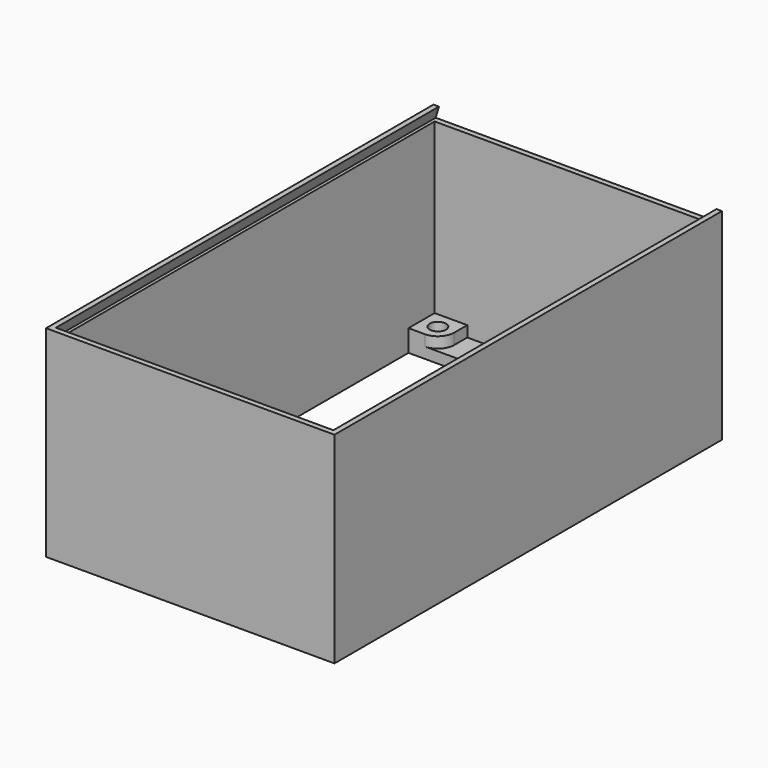
from build123d import *

# Parameters (mm, degrees)
SKETCH_W        = 53
SKETCH_H        = 89
PAD_DEPTH       = 2
SKETCH001_W     = 51
SKETCH001_H     = 71
POCKET_DEPTH    = 2
SKETCH002_W     = 53
SKETCH002_H     = 89
SKETCH002_W_2   = 51
SKETCH002_H_2   = 87
PAD001_DEPTH    = 33
SKETCH003_R     = 1.5
PAD002_DEPTH    = 2
PAD003_DEPTH    = 2
POCKET001_DEPTH = 88


with BuildPart() as part:
    # Sketch → Pad (new body)
    with BuildSketch(Plane.XY):
        with Locations((26.5, 44.5)):
            Rectangle(SKETCH_W, SKETCH_H)
    extrude(amount=PAD_DEPTH)

    # Sketch001 (on Face6 of Pad) → Pocket (cut)
    with BuildSketch(Plane.XY.offset(2)):
        with Locations((26.5, 46.5)):
            Rectangle(SKETCH001_W, SKETCH001_H)
    extrude(amount=-POCKET_DEPTH, mode=Mode.SUBTRACT)

    # Sketch002 (on Face5 of Pocket) → Pad001 (join)
    with BuildSketch(Plane.XY.offset(2)):
        with Locations((26.5, 44.5)):
            Rectangle(SKETCH002_W, SKETCH002_H)
        with Locations((26.5, 44.5)):
            Rectangle(SKETCH002_W_2, SKETCH002_H_2, mode=Mode.SUBTRACT)
    extrude(amount=PAD001_DEPTH)

    # Sketch003 (on Face15 of Pad001) → Pad002 (join)
    with BuildSketch(Plane.XY.offset(2)):
        with BuildLine():
            ThreePointArc((4, 82), (6.12132, 82.87868), (7, 85))
            Line((7, 88), (7, 85))
            Line((1, 88), (7, 88))
            Line((1, 82), (1, 88))
            Line((4, 82), (1, 82))
        make_face()
        with Locations((4, 85)):
            Circle(SKETCH003_R, mode=Mode.SUBTRACT)
        with BuildLine():
            ThreePointArc((46, 85), (46.87868, 82.87868), (49, 82))
            Line((52, 82), (49, 82))
            Line((52, 88), (52, 82))
            Line((46, 88), (52, 88))
            Line((46, 85), (46, 88))
        make_face()
        with Locations((49, 85)):
            Circle(SKETCH003_R, mode=Mode.SUBTRACT)
        with BuildLine():
            ThreePointArc((49, 11), (46, 8), (49, 5))
            Line((52, 5), (49, 5))
            Line((52, 11), (52, 5))
            Line((49, 11), (52, 11))
        make_face()
        with Locations((49, 8)):
            Circle(SKETCH003_R, mode=Mode.SUBTRACT)
        with BuildLine():
            ThreePointArc((4, 5), (7, 8), (4, 11))
            Line((1, 11), (4, 11))
            Line((1, 5), (1, 11))
            Line((4, 5), (1, 5))
        make_face()
        with Locations((4, 8)):
            Circle(SKETCH003_R, mode=Mode.SUBTRACT)
    extrude(amount=PAD002_DEPTH)

    # Sketch004 (on Face13 of Pad002) → Pad003 (join)
    with BuildSketch(Plane.XY.offset(35)):
        Polygon((0, 0), (0, 89), (1, 89), (1, 1), (52, 1), (52, 89), (53, 89), (53, 0), align=None)
    extrude(amount=PAD003_DEPTH)

    # Sketch005 (on Face28 of Pad003) → Pocket001 (cut)
    with BuildSketch(Plane(origin=(0, 89, 0), x_dir=(-1, 0, 0), z_dir=(0, 1, 0))):
        Polygon((-52.6, 35), (-52, 37), (-52, 35), align=None)
        Polygon((-1, 35), (-1, 37), (-0.4, 35), align=None)
    extrude(amount=-POCKET001_DEPTH, mode=Mode.SUBTRACT)


solid = part.part
